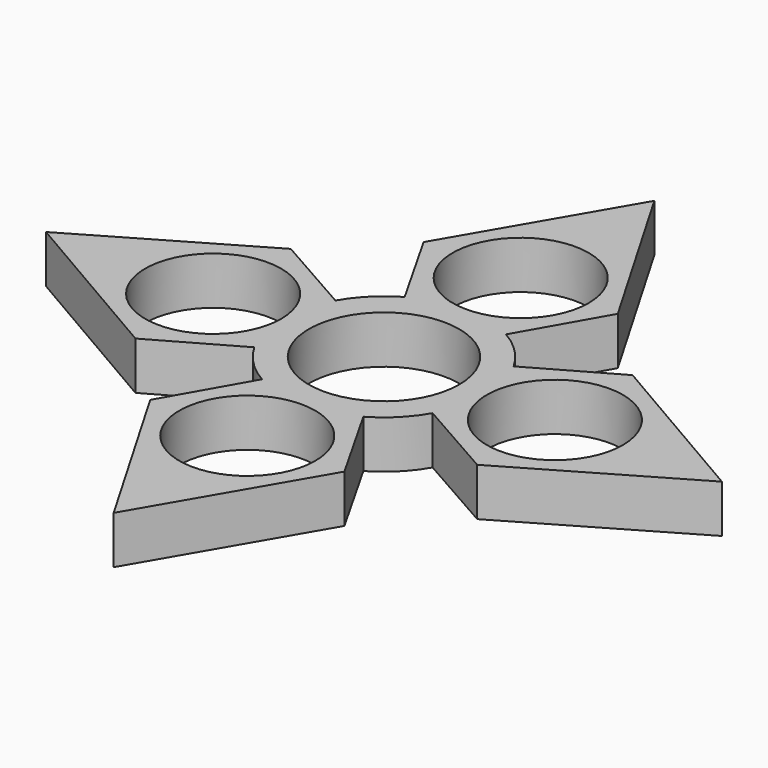
from build123d import *

# Parameters (mm, degrees)
F0_R     = 9.95
F0_R_2   = 11
F1_DEPTH = 7


with BuildPart() as f1:
    # F0 (on Top) → F1 (new body)
    with BuildSketch(Plane.XY):
        with BuildLine():
            Line((-14.206581, 25), (-7.410944, 13.041392))
            ThreePointArc((-7.410944, 13.041392), (-10.606602, 10.606602), (-13.041392, 7.410944))
            Line((-13.041392, 7.410944), (-25, 14.206581))
            Line((-25, 14.206581), (-49.441773, 0))
            Line((-49.441773, 0), (-25, -14.206581))
            Line((-25, -14.206581), (-13.041392, -7.410944))
            ThreePointArc((-13.041392, -7.410944), (-10.606602, -10.606602), (-7.410944, -13.041392))
            Line((-7.410944, -13.041392), (-14.206581, -25))
            Line((-14.206581, -25), (0, -49.441773))
            Line((0, -49.441773), (14.206581, -25))
            Line((14.206581, -25), (7.410944, -13.041392))
            ThreePointArc((7.410944, -13.041392), (10.606602, -10.606602), (13.041392, -7.410944))
            Line((13.041392, -7.410944), (25, -14.206581))
            Line((25, -14.206581), (49.441773, 0))
            Line((49.441773, 0), (25, 14.206581))
            Line((25, 14.206581), (13.041392, 7.410944))
            ThreePointArc((13.041392, 7.410944), (10.606602, 10.606602), (7.410944, 13.041392))
            Line((7.410944, 13.041392), (14.206581, 25))
            Line((14.206581, 25), (0, 49.441773))
            Line((0, 49.441773), (-14.206581, 25))
        make_face()
        with Locations((0, -25)):
            Circle(F0_R, mode=Mode.SUBTRACT)
        with Locations((-25, 0)):
            Circle(F0_R, mode=Mode.SUBTRACT)
        Circle(F0_R_2, mode=Mode.SUBTRACT)
        with Locations((25, 0)):
            Circle(F0_R, mode=Mode.SUBTRACT)
        with Locations((0, 25)):
            Circle(F0_R, mode=Mode.SUBTRACT)
    extrude(amount=F1_DEPTH)


solid = f1.part
